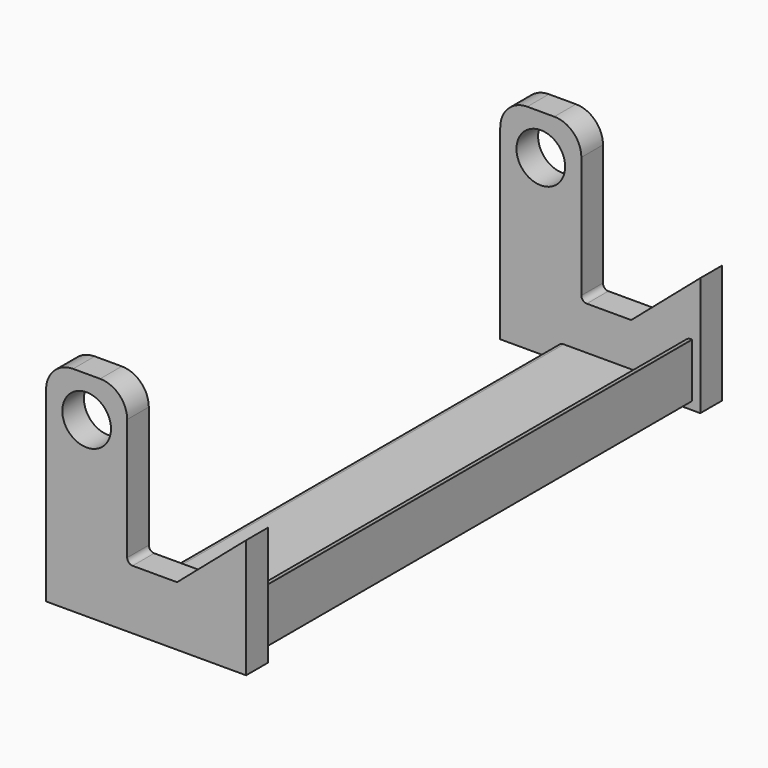
from build123d import *

# Parameters (mm, degrees)
F0_R     = 9
F1_DEPTH = 10
F4_DEPTH = 200
F6_R     = 9
F7_DEPTH = 10


with BuildPart() as f1:
    # F0 (on Front) → F1 (new body)
    with BuildSketch(Plane.XZ):
        with BuildLine():
            ThreePointArc((-5, 15), (-12.071068, 12.071068), (-15, 5))
            Line((-15, 5), (-15, -64))
            Line((-15, -64), (59, -64))
            Line((59, -64), (59, -20))
            Line((59, -20), (33.445753, -41.98012))
            Line((33.445753, -41.98012), (17, -41.98012))
            ThreePointArc((17, -41.98012), (15.585786, -41.394334), (15, -39.98012))
            Line((15, -39.98012), (15, 5))
            ThreePointArc((15, 5), (12.071068, 12.071068), (5, 15))
            Line((5, 15), (-5, 15))
        make_face()
        Circle(F0_R, mode=Mode.SUBTRACT)
    extrude(amount=-F1_DEPTH)

    # F3 (on offset) → F4 (join)
    with BuildSketch(Plane.XZ.offset(-10)):
        with BuildLine():
            Line((6, -60.5), (6, -61))
            Line((6, -61), (56, -61))
            Line((56, -61), (56, -41))
            Line((56, -41), (55.5, -41))
            ThreePointArc((55.5, -41), (53.732233, -41.732233), (53, -43.5))
            Line((53, -43.5), (53, -53))
            ThreePointArc((53, -53), (51.535534, -56.535534), (48, -58))
            Line((48, -58), (8.5, -58))
            ThreePointArc((8.5, -58), (6.732233, -58.732233), (6, -60.5))
        make_face()
    extrude(amount=-F4_DEPTH)

    # F6 (on offset) → F7 (join)
    with BuildSketch(Plane.XZ.offset(-210)):
        with BuildLine():
            ThreePointArc((-5, 15), (-12.071068, 12.071068), (-15, 5))
            Line((-15, 5), (-15, -64))
            Line((-15, -64), (59, -64))
            Line((59, -64), (59, -20))
            Line((59, -20), (33.445753, -41.98012))
            Line((33.445753, -41.98012), (17, -41.98012))
            ThreePointArc((17, -41.98012), (15.585786, -41.394334), (15, -39.98012))
            Line((15, -39.98012), (15, 5))
            ThreePointArc((15, 5), (12.071068, 12.071068), (5, 15))
            Line((5, 15), (-5, 15))
        make_face()
        Circle(F6_R, mode=Mode.SUBTRACT)
    extrude(amount=-F7_DEPTH)


solid = f1.part
